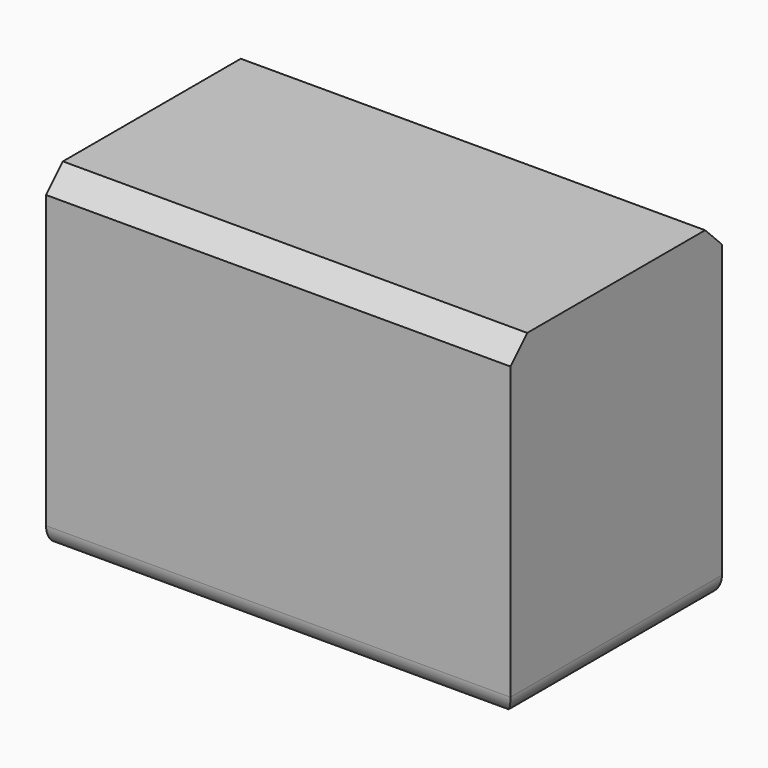
from build123d import *

# Parameters (mm, degrees)
F0_W     = 112.211272
F0_H     = 63.897693
F1_DEPTH = 80.518
F2_SIZE  = 5.08
F3_SIZE  = 5.08
F4_R     = 5.08


with BuildPart() as f1:
    # F0 (on Top) → F1 (new body)
    with BuildSketch(Plane.XY):
        with Locations((1.737624, 11.209644)):
            Rectangle(F0_W, F0_H)
    extrude(amount=F1_DEPTH)

    # F2
    f2_edges = [f1.edges().sort_by_distance(p)[0] for p in [
        (1.737624, -20.739203, 80.518),
    ]]
    chamfer(f2_edges, length=F2_SIZE)

    # F3
    f3_edges = [f1.edges().sort_by_distance(p)[0] for p in [
        (1.737624, 43.15849, 80.518),
    ]]
    chamfer(f3_edges, length=F3_SIZE)

    # F4
    f4_edges = [f1.edges().sort_by_distance(p)[0] for p in [
        (1.737624, -20.739203, 0),
        (57.84326, 11.209643, 0),
    ]]
    fillet(f4_edges, radius=F4_R)


solid = f1.part
